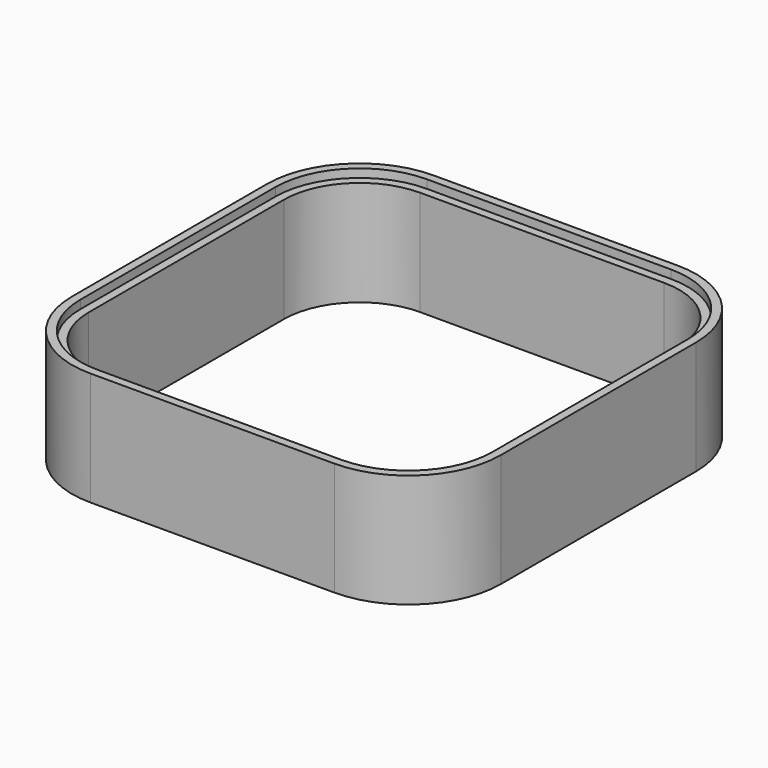
from build123d import *

# Parameters (mm, degrees)
F1_DEPTH = 25
F2_DEPTH = 27


with BuildPart() as f1:
    # F0 (on Top) → F1 (new body)
    with BuildSketch(Plane.XY):
        with BuildLine():
            Line((29, 49), (-29, 49))
            ThreePointArc((-29, 49), (-43.142136, 43.142136), (-49, 29))
            Line((-49, 29), (-49, -29))
            ThreePointArc((-49, -29), (-43.142136, -43.142136), (-29, -49))
            Line((-29, -49), (29, -49))
            ThreePointArc((29, -49), (43.142136, -43.142136), (49, -29))
            Line((49, -29), (49, 29))
            ThreePointArc((49, 29), (43.142136, 43.142136), (29, 49))
        make_face()
        with BuildLine():
            ThreePointArc((-47, 29), (-41.727922, 41.727922), (-29, 47))
            Line((-29, 47), (29, 47))
            ThreePointArc((29, 47), (41.727922, 41.727922), (47, 29))
            Line((47, 29), (47, -29))
            ThreePointArc((47, -29), (41.727922, -41.727922), (29, -47))
            Line((29, -47), (-29, -47))
            ThreePointArc((-29, -47), (-41.727922, -41.727922), (-47, -29))
            Line((-47, -29), (-47, 29))
        make_face(mode=Mode.SUBTRACT)
    extrude(amount=F1_DEPTH)

    # F0 (on Top) → F2 (join)
    with BuildSketch(Plane.XY):
        with BuildLine():
            Line((29, 51), (-29, 51))
            ThreePointArc((-29, 51), (-44.556349, 44.556349), (-51, 29))
            Line((-51, 29), (-51, -29))
            ThreePointArc((-51, -29), (-44.556349, -44.556349), (-29, -51))
            Line((-29, -51), (29, -51))
            ThreePointArc((29, -51), (44.556349, -44.556349), (51, -29))
            Line((51, -29), (51, 29))
            ThreePointArc((51, 29), (44.556349, 44.556349), (29, 51))
        make_face()
        with BuildLine():
            ThreePointArc((-49, 29), (-43.142136, 43.142136), (-29, 49))
            Line((-29, 49), (29, 49))
            ThreePointArc((29, 49), (43.142136, 43.142136), (49, 29))
            Line((49, 29), (49, -29))
            ThreePointArc((49, -29), (43.142136, -43.142136), (29, -49))
            Line((29, -49), (-29, -49))
            ThreePointArc((-29, -49), (-43.142136, -43.142136), (-49, -29))
            Line((-49, -29), (-49, 29))
        make_face(mode=Mode.SUBTRACT)
    extrude(amount=F2_DEPTH)


solid = f1.part
